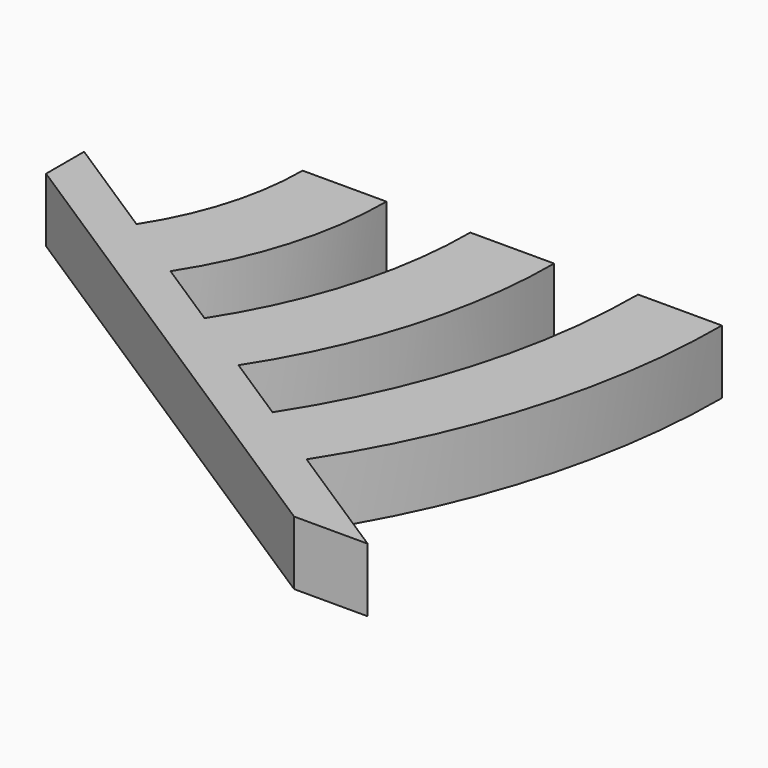
from build123d import *

# Parameters (mm, degrees)
F1_DEPTH = 1.6


with BuildPart() as f1:
    # F0 (on Top) → F1 (new body, symmetric)
    with BuildSketch(Plane.XY):
        with BuildLine():
            Line((-25.183632, -2.687605), (-29.383015, 0.026282))
            Line((-29.383015, 0.026282), (-29.383015, -2.35502))
            Line((-29.383015, -2.35502), (-3.667767, -18.973718))
            Line((-3.667767, -18.973718), (0.016985, -18.973718))
            Line((0.016985, -18.973718), (-4.182398, -16.259831))
            Line((-4.182398, -16.259831), (-6.313219, -14.88277))
            ThreePointArc((-6.313219, -14.88277), (-2.138999, -5.788423), (-0.708623, 4.115379))
            Line((-0.708623, 4.115379), (-4.908006, 4.115379))
            ThreePointArc((-4.908006, 4.115379), (-6.16677, -4.6002), (-9.840183, -12.60344))
            Line((-9.840183, -12.60344), (-12.585483, -10.829266))
            Line((-12.585483, -10.829266), (-13.370774, -10.321765))
            ThreePointArc((-13.370774, -10.321765), (-10.198684, -3.410755), (-9.111708, 4.115379))
            Line((-9.111708, 4.115379), (-13.311091, 4.115379))
            ThreePointArc((-13.311091, 4.115379), (-14.226456, -2.222532), (-16.897737, -8.042435))
            Line((-16.897737, -8.042435), (-20.424701, -5.763105))
            ThreePointArc((-20.424701, -5.763105), (-18.254228, -1.034309), (-17.510474, 4.115379))
            Line((-17.510474, 4.115379), (-21.709857, 4.115379))
            ThreePointArc((-21.709857, 4.115379), (-22.281999, 0.153913), (-23.951664, -3.483775))
            Line((-23.951664, -3.483775), (-25.183632, -2.687605))
        make_face()
    extrude(amount=F1_DEPTH, both=True)


solid = f1.part
